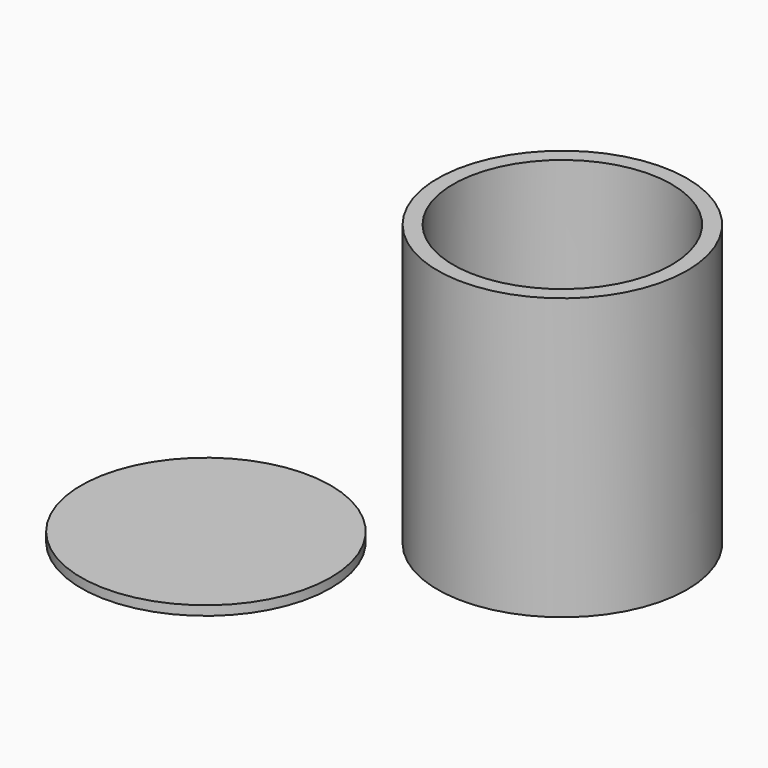
from build123d import *

# Parameters (mm, degrees)
F0_R     = 20
F1_DEPTH = 1.5
F0_R_2   = 17.5
F2_DEPTH = 4
F3_DEPTH = 45


with BuildPart() as f1:
    # F0 (on Top) → F1 (new body)
    with BuildSketch(Plane.XY):
        with Locations((-35.068445, -27.572853)):
            Circle(F0_R)
    extrude(amount=F1_DEPTH)


with BuildPart() as f2:
    # F0 (on Top) → F2 (new body)
    with BuildSketch(Plane.XY):
        Circle(F0_R_2)
    extrude(amount=F2_DEPTH)

    # F0 (on Top) → F3 (join)
    with BuildSketch(Plane.XY):
        Circle(F0_R)
        Circle(F0_R_2, mode=Mode.SUBTRACT)
    extrude(amount=F3_DEPTH)


solid = Compound([f1.part, f2.part])
